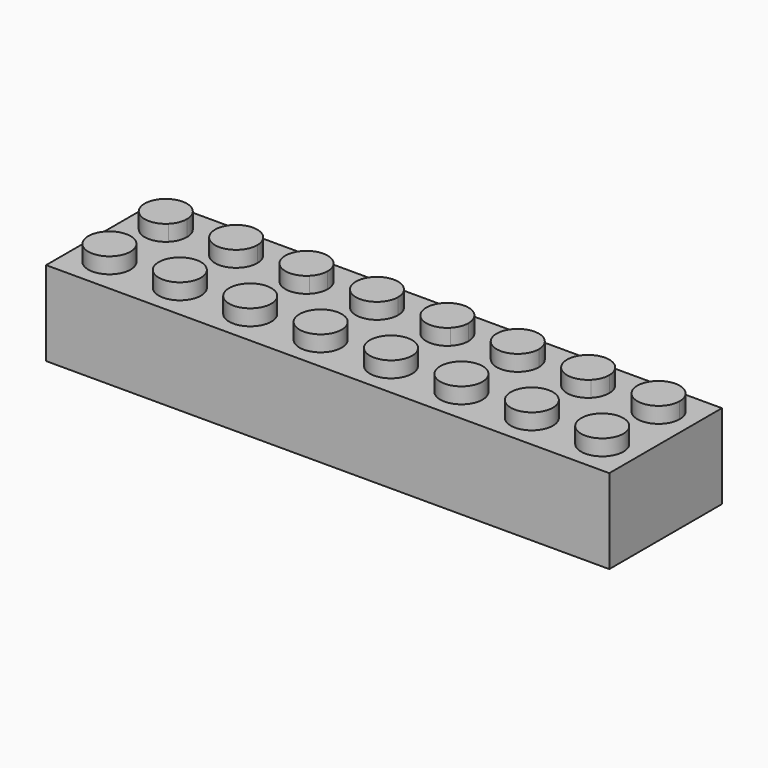
from build123d import *

# Parameters (mm, degrees)
F0_W     = 64
F0_H     = 16
F1_DEPTH = 9.6
F2_R     = 2.4
F3_DEPTH = 1.8


with BuildPart() as f1:
    # F0 (on Top) → F1 (new body)
    with BuildSketch(Plane.XY):
        with Locations((-32, 8)):
            Rectangle(F0_W, F0_H)
    extrude(amount=F1_DEPTH)

    # F2 (on face) → F3 (join)
    with BuildSketch(Plane.XY.offset(9.6)):
        with Locations((-60, 4)):
            Circle(F2_R)
        with BuildLine():
            ThreePointArc((-61.6970562748, 13.6970562748), (-61.6970562748, 10.3029437252), (-58.3029437252, 10.3029437252))
            Line((-58.3029437252, 10.3029437252), (-61.6970562748, 13.6970562748))
        make_face()
        with BuildLine():
            Line((-61.6970562748, 13.6970562748), (-58.3029437252, 10.3029437252))
            ThreePointArc((-58.3029437252, 10.3029437252), (-57.782689122, 11.0815597623), (-57.6, 12))
            ThreePointArc((-57.6, 12), (-59.0815597623, 14.217310878), (-61.6970562748, 13.6970562748))
        make_face()
        with BuildLine():
            ThreePointArc((-50.3029437252, 13.6970562748), (-53.6970562748, 13.6970562748), (-53.6970562748, 10.3029437252))
            Line((-53.6970562748, 10.3029437252), (-50.3029437252, 13.6970562748))
        make_face()
        with BuildLine():
            Line((-50.3029437252, 13.6970562748), (-53.6970562748, 10.3029437252))
            ThreePointArc((-53.6970562748, 10.3029437252), (-51.0815597623, 9.782689122), (-49.6, 12))
            ThreePointArc((-49.6, 12), (-49.782689122, 12.9184402377), (-50.3029437252, 13.6970562748))
        make_face()
        with BuildLine():
            ThreePointArc((-45.6970562748, 13.6970562748), (-45.6970562748, 10.3029437252), (-42.3029437252, 10.3029437252))
            Line((-42.3029437252, 10.3029437252), (-45.6970562748, 13.6970562748))
        make_face()
        with BuildLine():
            Line((-45.6970562748, 13.6970562748), (-42.3029437252, 10.3029437252))
            ThreePointArc((-42.3029437252, 10.3029437252), (-41.782689122, 11.0815597623), (-41.6, 12))
            ThreePointArc((-41.6, 12), (-43.0815597623, 14.217310878), (-45.6970562748, 13.6970562748))
        make_face()
        with BuildLine():
            ThreePointArc((-34.3029437252, 13.6970562748), (-37.6970562748, 13.6970562748), (-37.6970562748, 10.3029437252))
            Line((-37.6970562748, 10.3029437252), (-34.3029437252, 13.6970562748))
        make_face()
        with BuildLine():
            Line((-34.3029437252, 13.6970562748), (-37.6970562748, 10.3029437252))
            ThreePointArc((-37.6970562748, 10.3029437252), (-35.0815597623, 9.782689122), (-33.6, 12))
            ThreePointArc((-33.6, 12), (-33.782689122, 12.9184402377), (-34.3029437252, 13.6970562748))
        make_face()
        with BuildLine():
            ThreePointArc((-29.6970562748, 13.6970562748), (-29.6970562748, 10.3029437252), (-26.3029437252, 10.3029437252))
            Line((-26.3029437252, 10.3029437252), (-29.6970562748, 13.6970562748))
        make_face()
        with BuildLine():
            Line((-29.6970562748, 13.6970562748), (-26.3029437252, 10.3029437252))
            ThreePointArc((-26.3029437252, 10.3029437252), (-25.782689122, 11.0815597623), (-25.6, 12))
            ThreePointArc((-25.6, 12), (-27.0815597623, 14.217310878), (-29.6970562748, 13.6970562748))
        make_face()
        with BuildLine():
            ThreePointArc((-18.3029437252, 13.6970562748), (-21.6970562748, 13.6970562748), (-21.6970562748, 10.3029437252))
            Line((-21.6970562748, 10.3029437252), (-18.3029437252, 13.6970562748))
        make_face()
        with BuildLine():
            Line((-18.3029437252, 13.6970562748), (-21.6970562748, 10.3029437252))
            ThreePointArc((-21.6970562748, 10.3029437252), (-19.0815597623, 9.782689122), (-17.6, 12))
            ThreePointArc((-17.6, 12), (-17.782689122, 12.9184402377), (-18.3029437252, 13.6970562748))
        make_face()
        with BuildLine():
            ThreePointArc((-13.6970562748, 13.6970562748), (-13.6970562748, 10.3029437252), (-10.3029437252, 10.3029437252))
            Line((-10.3029437252, 10.3029437252), (-13.6970562748, 13.6970562748))
        make_face()
        with BuildLine():
            Line((-13.6970562748, 13.6970562748), (-10.3029437252, 10.3029437252))
            ThreePointArc((-10.3029437252, 10.3029437252), (-9.782689122, 11.0815597623), (-9.6, 12))
            ThreePointArc((-9.6, 12), (-11.0815597623, 14.217310878), (-13.6970562748, 13.6970562748))
        make_face()
        with BuildLine():
            ThreePointArc((-2.3029437252, 13.6970562748), (-5.6970562748, 13.6970562748), (-5.6970562748, 10.3029437252))
            Line((-5.6970562748, 10.3029437252), (-2.3029437252, 13.6970562748))
        make_face()
        with BuildLine():
            Line((-2.3029437252, 13.6970562748), (-5.6970562748, 10.3029437252))
            ThreePointArc((-5.6970562748, 10.3029437252), (-3.0815597623, 9.782689122), (-1.6, 12))
            ThreePointArc((-1.6, 12), (-1.782689122, 12.9184402377), (-2.3029437252, 13.6970562748))
        make_face()
        with Locations((-4, 4)):
            Circle(F2_R)
        with Locations((-12, 4)):
            Circle(F2_R)
        with Locations((-20, 4)):
            Circle(F2_R)
        with Locations((-28, 4)):
            Circle(F2_R)
        with Locations((-36, 4)):
            Circle(F2_R)
        with Locations((-44, 4)):
            Circle(F2_R)
        with Locations((-52, 4)):
            Circle(F2_R)
    extrude(amount=F3_DEPTH)


solid = f1.part
